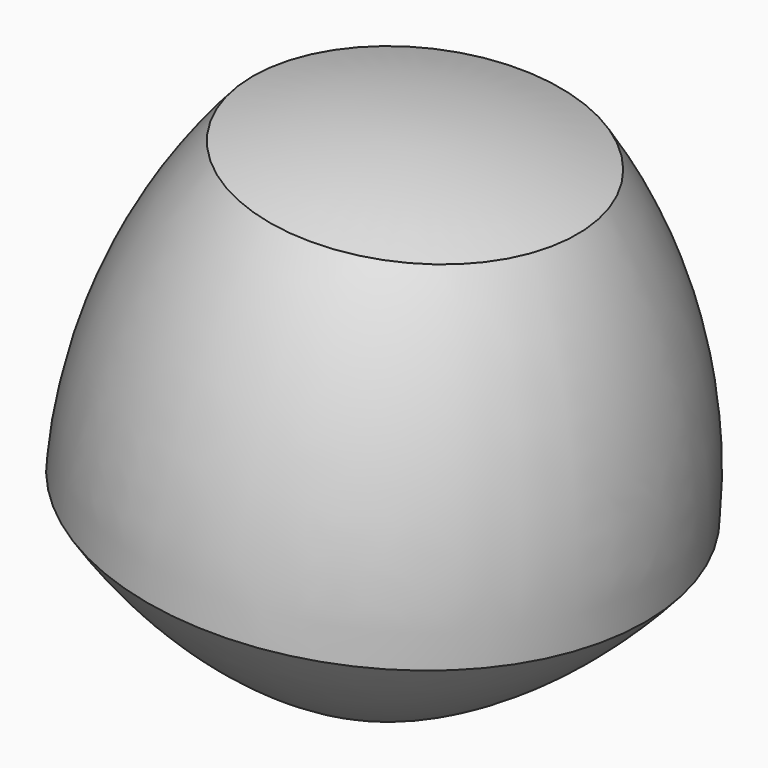
from build123d import *


with BuildPart() as f1:
    # F0 (on Front) → F1 (revolve)
    with BuildSketch(Plane.XZ):
        with BuildLine():
            ThreePointArc((2.4770402097, 23.8419499081), (-5.4513718175, 24.0400664105), (-13.3131641852, 22.9954668759))
            ThreePointArc((-13.3131641852, 22.9954668759), (-21.9095943007, 9.7233729332), (-25.9839825997, -5.5555814926))
            ThreePointArc((-25.9839825997, -5.5555814926), (-16.0179141673, -17.8325749501), (-2.7458202245, -26.4290050656))
            Line((-2.7458202245, -26.4290050656), (2.2214152251, 21.3815142425))
            Line((2.2214152251, 21.3815142425), (2.4770402097, 23.8419499081))
        make_face()
    revolve(axis=Axis((-0.1343900074, 0, -1.2935275788), (0.1033379774, 0, 0.9946463002)))


solid = f1.part
